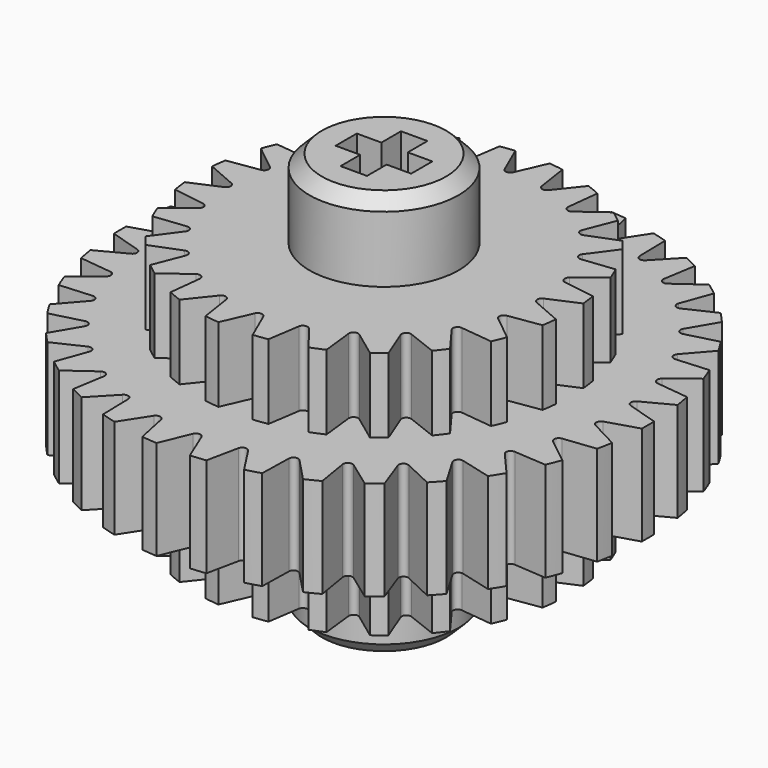
from build123d import *

# Parameters (mm, degrees)
F0_R      = 16.8606013276
F1_DEPTH  = 3.175
F3_DEPTH  = 6.35
F4_COUNT  = 34
F4_ANGLE  = 349.4117647059
F5_R      = 4.7625
F6_DEPTH  = 12.954
F7_SIZE   = 0.79375
F8_R      = 11.9016009371
F9_DEPTH  = 7.9375
F11_DEPTH = 4.7625
F13_DEPTH = 4.7625
F14_COUNT = 24
F14_ANGLE = 345
F15_W     = 1.6891
F15_H     = 1.56845
F15_H_2   = 1.6891
F15_W_2   = 1.56845
F16_DEPTH = 5.55625
F17_W     = 1.6891
F17_H     = 1.56845
F17_W_2   = 1.56845
F17_H_2   = 1.6891
F18_DEPTH = 5.55625


with BuildPart() as f1:
    # F0 (on Top) → F1 (new body, symmetric)
    with BuildSketch(Plane.XY):
        Circle(F0_R)
    extrude(amount=F1_DEPTH, both=True)

    # F2 (on face) → F3 (cut, through all)
    with BuildSketch(Plane.XY.offset(3.175)):
        with BuildLine():
            Line((0.2750522147, 14.9107071253), (1.0655839766, 16.8268953737))
            ThreePointArc((1.0655839766, 16.8268953737), (0, 16.8606013276), (-1.0655839766, 16.8268953737))
            Line((-1.0655839766, 16.8268953737), (-0.2750522147, 14.9107071253))
            ThreePointArc((-0.2750522147, 14.9107071253), (0, 14.7266410845), (0.2750522147, 14.9107071253))
        make_face()
    f3 = extrude(amount=-F3_DEPTH, mode=Mode.SUBTRACT)

    # F4: F3 ×34 about axis
    f4_axis = Axis((0, 0, 0), (0, 0, 1))
    for i in range(1, F4_COUNT):
        add(f3.rotate(f4_axis, i * F4_ANGLE / (F4_COUNT - 1)), mode=Mode.SUBTRACT)

    # F5 (on Top) → F6 (join, symmetric)
    with BuildSketch(Plane.XY):
        Circle(F5_R)
    extrude(amount=F6_DEPTH, both=True)

    # F7
    f7_edges = [f1.edges().sort_by_distance(p)[0] for p in [
        (-4.7625, 0, 12.954),
        (-4.7625, 0, -12.954),
    ]]
    chamfer(f7_edges, length=F7_SIZE)

    # F8 (on Top) → F9 (join, symmetric)
    with BuildSketch(Plane.XY):
        Circle(F8_R)
    extrude(amount=F9_DEPTH, both=True)

    # F10 (on face) → F11 (cut, through all)
    with BuildSketch(Plane(origin=(0, 0, -7.9375), x_dir=(1, 0, 0), z_dir=(0, 0, -1))):
        with BuildLine():
            Line((-0.272684092, -9.968449005), (-1.0946616999, -11.8511527131))
            ThreePointArc((-1.0946616999, -11.8511527131), (0, -11.9016009371), (1.0946616999, -11.8511527131))
            Line((1.0946616999, -11.8511527131), (0.272684092, -9.968449005))
            ThreePointArc((0.272684092, -9.968449005), (0, -9.7899612874), (-0.272684092, -9.968449005))
        make_face()
    f11 = extrude(amount=-F11_DEPTH, mode=Mode.SUBTRACT)

    # F12 (on face) → F13 (cut, through all)
    with BuildSketch(Plane.XY.offset(7.9375)):
        with BuildLine():
            Line((0.272684092, 9.968449005), (1.0946616999, 11.8511527131))
            ThreePointArc((1.0946616999, 11.8511527131), (0, 11.9016009371), (-1.0946616999, 11.8511527131))
            Line((-1.0946616999, 11.8511527131), (-0.272684092, 9.968449005))
            ThreePointArc((-0.272684092, 9.968449005), (0, 9.7899612874), (0.272684092, 9.968449005))
        make_face()
    f13 = extrude(amount=-F13_DEPTH, mode=Mode.SUBTRACT)

    # F14: F11, F13 ×24 about axis
    f14_axis = Axis((0, 0, 0), (0, 0, 1))
    for i in range(1, F14_COUNT):
        add(f11.rotate(f14_axis, i * F14_ANGLE / (F14_COUNT - 1)), mode=Mode.SUBTRACT)
        add(f13.rotate(f14_axis, i * F14_ANGLE / (F14_COUNT - 1)), mode=Mode.SUBTRACT)

    # F15 (on face) → F16 (cut)
    with BuildSketch(Plane.XY.offset(12.954)):
        with Locations((0, -1.628775)):
            Rectangle(F15_W, F15_H)
        Rectangle(F15_W, F15_H_2)
        with Locations((1.628775, 0)):
            Rectangle(F15_W_2, F15_H_2)
        with Locations((-1.628775, 0)):
            Rectangle(F15_W_2, F15_H_2)
        with Locations((0, 1.628775)):
            Rectangle(F15_W, F15_H)
    extrude(amount=-F16_DEPTH, mode=Mode.SUBTRACT)

    # F17 (on face) → F18 (cut)
    with BuildSketch(Plane(origin=(0, 0, -12.954), x_dir=(1, 0, 0), z_dir=(0, 0, -1))):
        with Locations((0, -1.628775)):
            Rectangle(F17_W, F17_H)
        with Locations((-1.628775, 0)):
            Rectangle(F17_W_2, F17_H_2)
        Rectangle(F17_W, F17_H_2)
        with Locations((1.628775, 0)):
            Rectangle(F17_W_2, F17_H_2)
        with Locations((0, 1.628775)):
            Rectangle(F17_W, F17_H)
    extrude(amount=-F18_DEPTH, mode=Mode.SUBTRACT)


solid = f1.part
